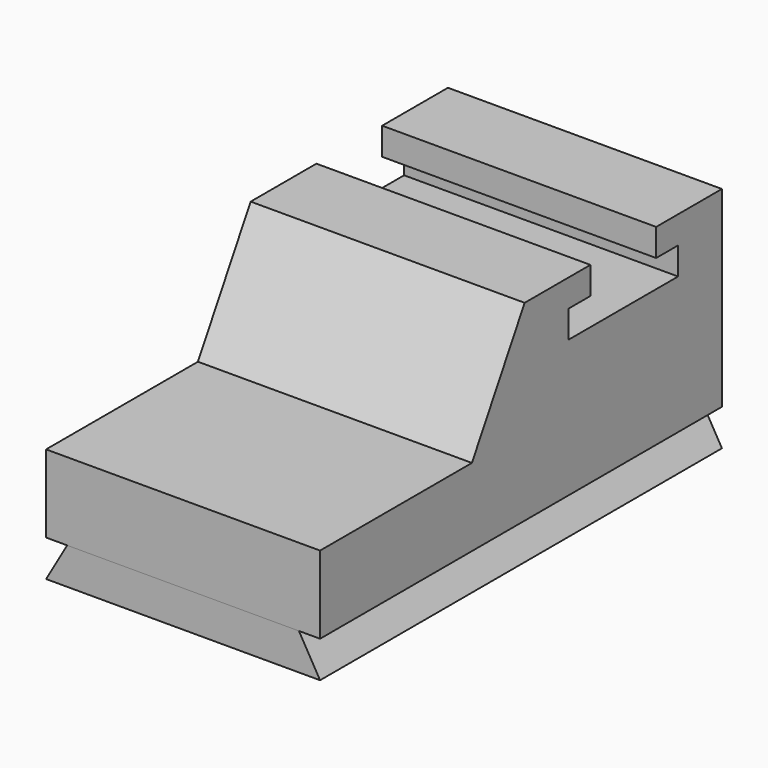
from build123d import *

# Parameters (mm, degrees)
F1_DEPTH = 1524
F0_W     = 2794
F0_H     = 203.2
F2_DEPTH = 1524
F4_DEPTH = 2794.001
F5_DEPTH = 2794.001


with BuildPart() as f1:
    # F0 (on Right) → F1 (new body)
    with BuildSketch(Plane.YZ):
        Polygon((-1452.4301245138, 565.2734136581), (-1452.4301245138, 133.4734136581), (1341.5698754862, 133.4734136581), (1341.5698754862, 1200.2734136581), (884.3698754862, 1200.2734136581), (884.3698754862, 1047.8734136581), (1036.7698754862, 1047.8734136581), (1036.7698754862, 895.4734136581), (274.7698754862, 895.4734136581), (274.7698754862, 1047.8734136581), (427.1698754862, 1047.8734136581), (427.1698754862, 1200.2734136581), (-30.0301245138, 1200.2734136581), (-396.6475454492, 565.2734136581), align=None)
    extrude(amount=-F1_DEPTH)


with BuildPart() as f2:
    # F0 (on Right) → F2 (new body)
    with BuildSketch(Plane.YZ):
        with Locations((-55.4301245138, 31.8734136581)):
            Rectangle(F0_W, F0_H)
    extrude(amount=-F2_DEPTH)

    # F3 (on face) → F4 (cut, through all)
    with BuildSketch(Plane.XZ.offset(1452.4301245138)):
        Polygon((-1524, 133.4734136581), (-1524, -69.7265863419), (-1406.6824253007, 133.4734136581), align=None)
    extrude(amount=-F4_DEPTH, mode=Mode.SUBTRACT)

    # F3 (on face) → F5 (cut, through all)
    with BuildSketch(Plane.XZ.offset(1452.4301245138)):
        Polygon((-117.3175746993, 133.4734136581), (0, -69.7265863419), (0, 133.4734136581), align=None)
    extrude(amount=-F5_DEPTH, mode=Mode.SUBTRACT)


solid = Compound([f1.part, f2.part])
